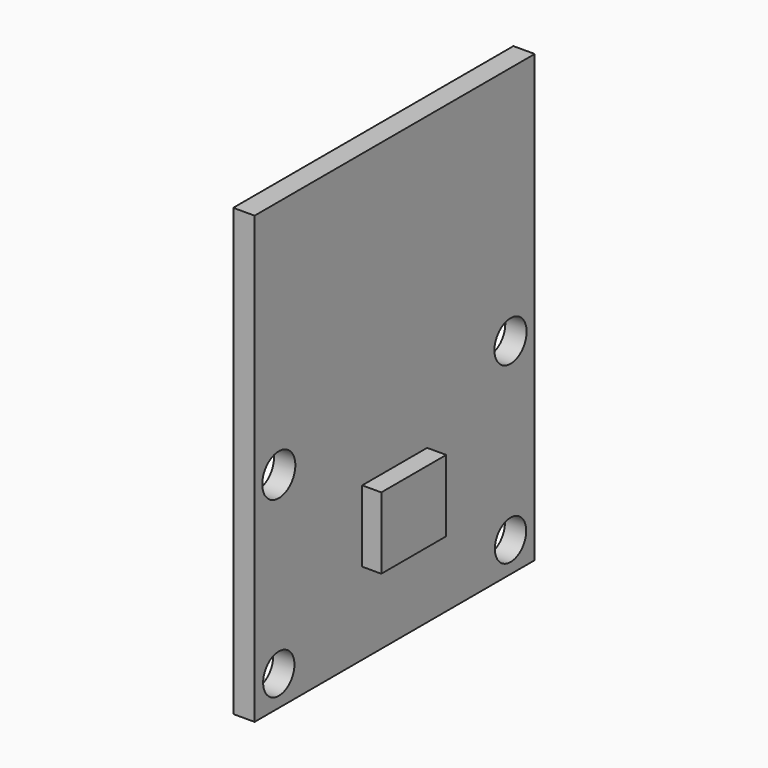
from build123d import *

# Parameters (mm, degrees)
F0_W     = 22
F0_H     = 28
F0_R     = 1.230066
F0_R_2   = 1.3
F0_W_2   = 5.1
F0_H_2   = 4.5
F0_R_3   = 1.263321
F1_DEPTH = 1.34
F2_DEPTH = 1.2


with BuildPart() as f1:
    # F0 (on Right) → F1 (new body)
    with BuildSketch(Plane.YZ):
        Rectangle(F0_W, F0_H)
        with Locations((-9.1, -12.1)):
            Circle(F0_R, mode=Mode.SUBTRACT)
        with Locations((-9.1, -1.1)):
            Circle(F0_R_2, mode=Mode.SUBTRACT)
        with Locations((9.1, -12.1)):
            Circle(F0_R, mode=Mode.SUBTRACT)
        with Locations((0, -6.6)):
            Rectangle(F0_W_2, F0_H_2, mode=Mode.SUBTRACT)
        with Locations((9.1, -1.1)):
            Circle(F0_R_3, mode=Mode.SUBTRACT)
        with Locations((0, -6.6)):
            Rectangle(F0_W_2, F0_H_2)
    extrude(amount=-F1_DEPTH)


with BuildPart() as f2:
    # F0 (on Right) → F2 (new body)
    with BuildSketch(Plane.YZ):
        with Locations((0, -6.6)):
            Rectangle(F0_W_2, F0_H_2)
    extrude(amount=F2_DEPTH)


solid = Compound([f1.part, f2.part])
